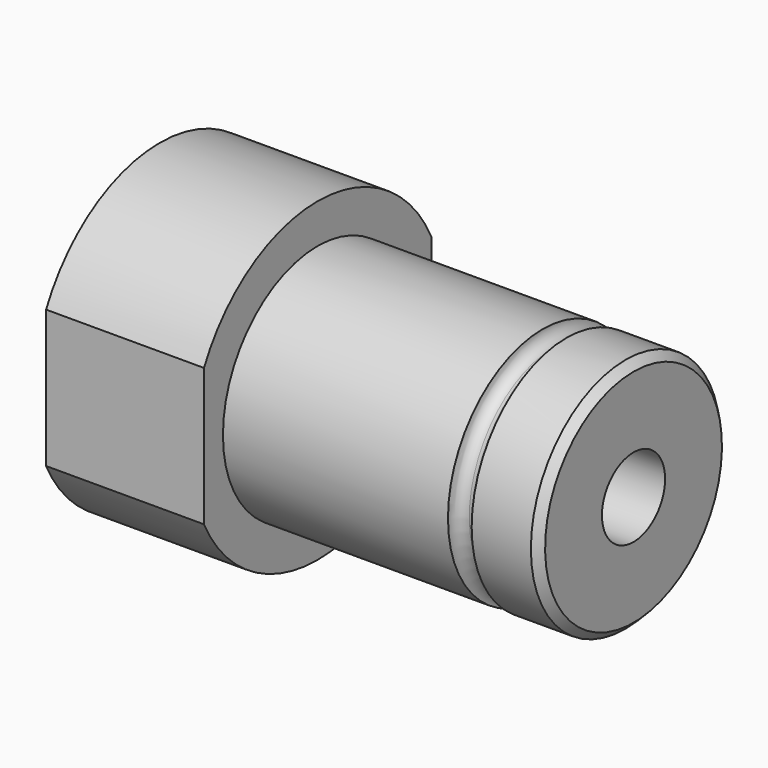
from build123d import *

# Parameters (mm, degrees)
F2_SIZE  = 1
F4_DEPTH = 20
F5_R     = 5
F6_DEPTH = 60


with BuildPart() as f1:
    # F0 (on Front) → F1 (revolve)
    with BuildSketch(Plane.XZ):
        with BuildLine():
            Line((0, 20), (0, 0))
            Line((0, 0), (50, 0))
            Line((50, 0), (50, 13.5))
            ThreePointArc((50, 13.5), (48.93934, 13.93934), (48.5, 15))
            Line((48.5, 15), (20, 15))
            Line((20, 15), (20, 20))
            Line((20, 20), (0, 20))
        make_face()
        with BuildLine():
            Line((50, 13.5), (50, 0))
            Line((50, 0), (60, 0))
            Line((60, 0), (60, 15))
            Line((60, 15), (51.5, 15))
            ThreePointArc((51.5, 15), (51.06066, 13.93934), (50, 13.5))
        make_face()
    revolve(axis=Axis((30, 0, 0), (-1, 0, 0)))

    # F2
    f2_edges = [f1.edges().sort_by_distance(p)[0] for p in [
        (60, 0, -15),
    ]]
    chamfer(f2_edges, length=F2_SIZE)

    # F3 (on face) → F4 (cut, through all)
    with BuildSketch(Plane(origin=(0, 0, 0), x_dir=(0, -1, 0), z_dir=(-1, 0, 0))):
        with BuildLine():
            Line((-18, -8.717798), (-18, 8.717798))
            ThreePointArc((-18, 8.717798), (-20, 0), (-18, -8.717798))
        make_face()
        with BuildLine():
            ThreePointArc((20, 0), (19.493589, 4.472136), (18, 8.717798))
            Line((18, 8.717798), (18, -8.717798))
            ThreePointArc((18, -8.717798), (19.493589, -4.472136), (20, 0))
        make_face()
    extrude(amount=-F4_DEPTH, mode=Mode.SUBTRACT)

    # F5 (on face) → F6 (cut, through all)
    with BuildSketch(Plane(origin=(0, 0, 0), x_dir=(0, -1, 0), z_dir=(-1, 0, 0))):
        Circle(F5_R)
    extrude(amount=-F6_DEPTH, mode=Mode.SUBTRACT)


solid = f1.part
